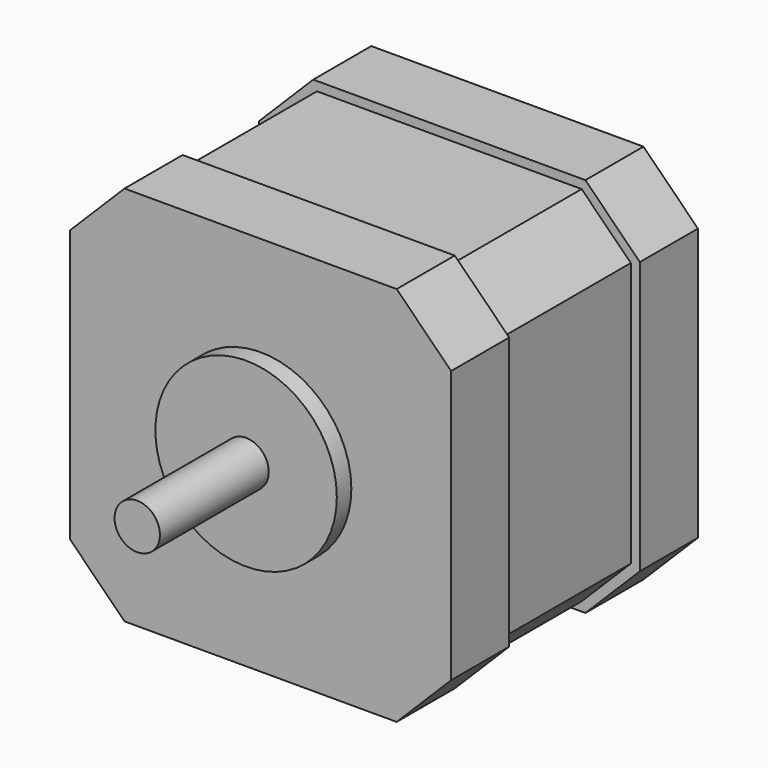
from build123d import *

# Parameters (mm, degrees)
F0_W     = 42
F0_H     = 42
F1_DEPTH = 34
F2_SIZE  = 6
F5_DEPTH = 18
F6_R     = 10
F7_DEPTH = 2
F8_R     = 2.5
F9_DEPTH = 15


with BuildPart() as f1:
    # F0 (on Front) → F1 (new body)
    with BuildSketch(Plane.XZ):
        Rectangle(F0_W, F0_H)
    extrude(amount=-F1_DEPTH)

    # F2
    f2_edges = [f1.edges().sort_by_distance(p)[0] for p in [
        (21, 17, 21),
        (-21, 17, 21),
        (21, 17, -21),
        (-21, 17, -21),
    ]]
    chamfer(f2_edges, length=F2_SIZE)

    # F4 (on offset) → F5 (cut)
    with BuildSketch(Plane.XZ.offset(-8)):
        Polygon((15, 21), (-15, 21), (-21, 15), (-21, -15), (-15, -21), (15, -21), (21, -15), (21, 15), align=None)
        Polygon((-20, 14.585786), (-14.585786, 20), (14.585786, 20), (20, 14.585786), (20, -14.585786), (14.585786, -20), (-14.585786, -20), (-20, -14.585786), align=None, mode=Mode.SUBTRACT)
    extrude(amount=-F5_DEPTH, mode=Mode.SUBTRACT)

    # F6 (on Front) → F7 (join)
    with BuildSketch(Plane.XZ):
        Circle(F6_R)
    extrude(amount=F7_DEPTH)

    # F8 (on face) → F9 (join)
    with BuildSketch(Plane.XZ.offset(2)):
        Circle(F8_R)
    extrude(amount=F9_DEPTH)


solid = f1.part
